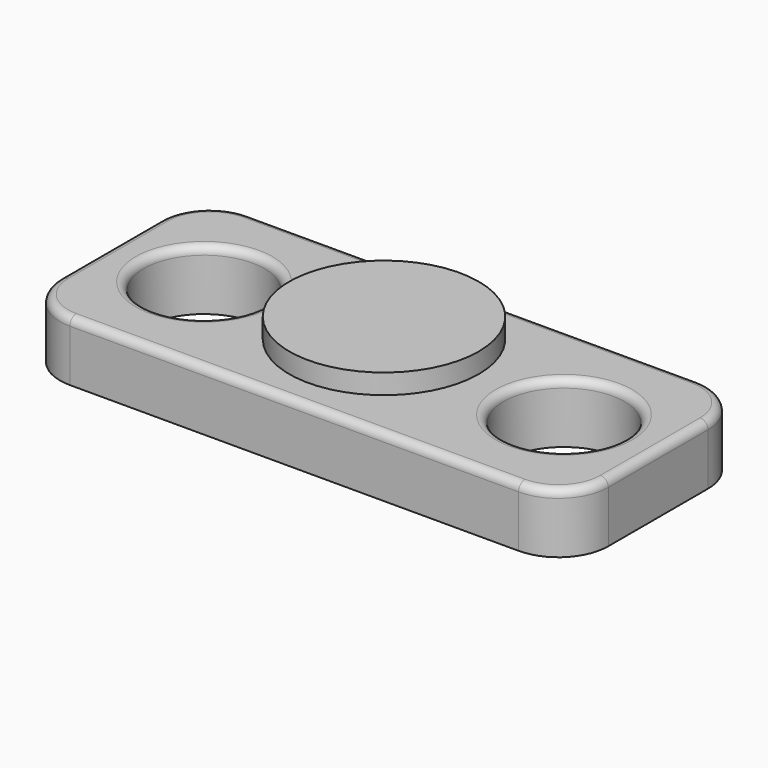
from build123d import *

# Parameters (mm, degrees)
F0_R      = 6.35
F1_DEPTH  = 4.8
F2_R      = 3.15
F3_DEPTH  = 4.801
F4_R      = 6.4
F5_DEPTH  = 6
F6_R      = 6
F6_R_2    = 3.65
F7_DEPTH  = 0.5
F8_R      = 6.05
F9_DEPTH  = 6.001
F10_R     = 0.8
F12_R     = 4.5
F13_DEPTH = 2
F14_R     = 9.5
F14_R_2   = 4.5
F15_DEPTH = 2
F16_R     = 3.1
F17_DEPTH = 2


with BuildPart() as f1:
    # F0 (on Top) → F1 (new body)
    with BuildSketch(Plane.XY):
        Circle(F0_R)
    extrude(amount=F1_DEPTH)

    # F2 (on face) → F3 (cut, through all)
    with BuildSketch(Plane.XY.offset(4.8)):
        Circle(F2_R)
    extrude(amount=-F3_DEPTH, mode=Mode.SUBTRACT)

    # F6 (on face) → F7 (cut)
    with BuildSketch(Plane.XY.offset(4.8)):
        Circle(F6_R)
        Circle(F6_R_2, mode=Mode.SUBTRACT)
    extrude(amount=-F7_DEPTH, mode=Mode.SUBTRACT)


with BuildPart() as f5:
    # F4 (on Top) → F5 (new body)
    with BuildSketch(Plane.XY):
        with BuildLine():
            ThreePointArc((27.5, 6.25), (26.0355339059, 9.7855339059), (22.5, 11.25))
            Line((22.5, 11.25), (-22.5, 11.25))
            ThreePointArc((-22.5, 11.25), (-26.0355339059, 9.7855339059), (-27.5, 6.25))
            Line((-27.5, 6.25), (-27.5, -6.25))
            ThreePointArc((-27.5, -6.25), (-26.0355339059, -9.7855339059), (-22.5, -11.25))
            Line((-22.5, -11.25), (22.5, -11.25))
            ThreePointArc((22.5, -11.25), (26.0355339059, -9.7855339059), (27.5, -6.25))
            Line((27.5, -6.25), (27.5, 6.25))
        make_face()
        Circle(F4_R, mode=Mode.SUBTRACT)
    extrude(amount=F5_DEPTH)

    # F8 (on face) → F9 (cut, through all)
    with BuildSketch(Plane.XY.offset(6)):
        with Locations((-18.05, 0)):
            Circle(F8_R)
        with Locations((18.05, 0)):
            Circle(F8_R)
    extrude(amount=-F9_DEPTH, mode=Mode.SUBTRACT)

    # F10
    f10_edges = [f5.edges().sort_by_distance(p)[0] for p in [
        (27.5, 0, 6),
        (26.035534, -9.785534, 6),
        (26.035534, 9.785534, 6),
        (0, -11.25, 6),
        (0, 11.25, 6),
        (-26.035534, -9.785534, 6),
        (-26.035534, 9.785534, 6),
        (-27.5, 0, 6),
        (-24.1, 0, 6),
        (-6.4, 0, 6),
        (12, 0, 6),
    ]]
    fillet(f10_edges, radius=F10_R)


with BuildPart() as f13:
    # F12 (on offset) → F13 (new body)
    with BuildSketch(Plane.XY.offset(4.8)):
        Circle(F12_R)
    extrude(amount=F13_DEPTH)

    # F14 (on face) → F15 (join)
    with BuildSketch(Plane.XY.offset(6.8)):
        Circle(F14_R)
        Circle(F14_R_2, mode=Mode.SUBTRACT)
        Circle(F14_R_2)
    extrude(amount=F15_DEPTH)

    # F16 (on face) → F17 (join)
    with BuildSketch(Plane(origin=(0, 0, 4.8), x_dir=(1, 0, 0), z_dir=(0, 0, -1))):
        Circle(F16_R)
    extrude(amount=F17_DEPTH)


solid = Compound([f1.part, f5.part, f13.part])
